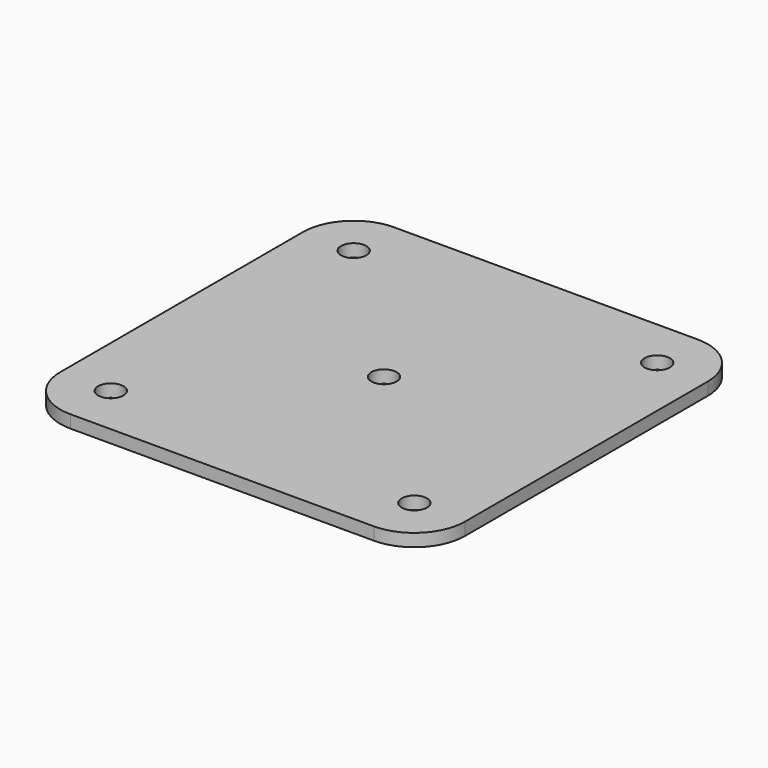
from build123d import *

# Parameters (mm, degrees)
F0_R     = 3.175
F1_DEPTH = 1.5875


with BuildPart() as f1:
    # F0 (on Top) → F1 (new body, symmetric)
    with BuildSketch(Plane.XY):
        with BuildLine():
            Line((-38.1, -50.8), (38.1, -50.8))
            ThreePointArc((38.1, -50.8), (47.080256, -47.080256), (50.8, -38.1))
            Line((50.8, -38.1), (50.8, 38.1))
            ThreePointArc((50.8, 38.1), (47.080256, 47.080256), (38.1, 50.8))
            Line((38.1, 50.8), (-38.1, 50.8))
            ThreePointArc((-38.1, 50.8), (-47.080256, 47.080256), (-50.8, 38.1))
            Line((-50.8, 38.1), (-50.8, -38.1))
            ThreePointArc((-50.8, -38.1), (-47.080256, -47.080256), (-38.1, -50.8))
        make_face()
        with Locations((-38.1, -38.1)):
            Circle(F0_R, mode=Mode.SUBTRACT)
        Circle(F0_R, mode=Mode.SUBTRACT)
        with Locations((38.1, -38.1)):
            Circle(F0_R, mode=Mode.SUBTRACT)
        with Locations((-38.1, 38.1)):
            Circle(F0_R, mode=Mode.SUBTRACT)
        with Locations((38.1, 38.1)):
            Circle(F0_R, mode=Mode.SUBTRACT)
    extrude(amount=F1_DEPTH, both=True)


solid = f1.part
